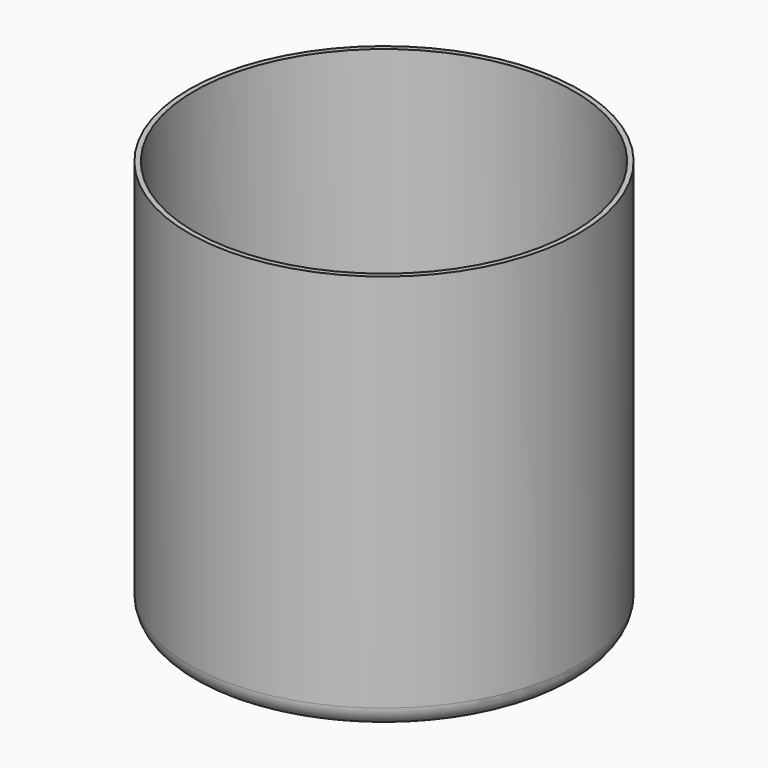
from build123d import *

# Parameters (mm, degrees)
F0_R     = 123.825
F0_R_2   = 120.65
F1_DEPTH = 254
F2_R     = 123.825
F3_DEPTH = 3.175
F4_R     = 12.7


with BuildPart() as f1:
    # F0 (on Top) → F1 (new body)
    with BuildSketch(Plane.XY):
        Circle(F0_R)
        Circle(F0_R_2, mode=Mode.SUBTRACT)
    extrude(amount=-F1_DEPTH)

    # F2 (on face) → F3 (join)
    with BuildSketch(Plane(origin=(0, 0, -254), x_dir=(1, 0, 0), z_dir=(0, 0, -1))):
        Circle(F2_R)
    extrude(amount=-F3_DEPTH)

    # F4
    f4_edges = [f1.edges().sort_by_distance(p)[0] for p in [
        (-123.825, 0, -254),
        (-120.65, 0, -250.825),
    ]]
    fillet(f4_edges, radius=F4_R)


solid = f1.part
